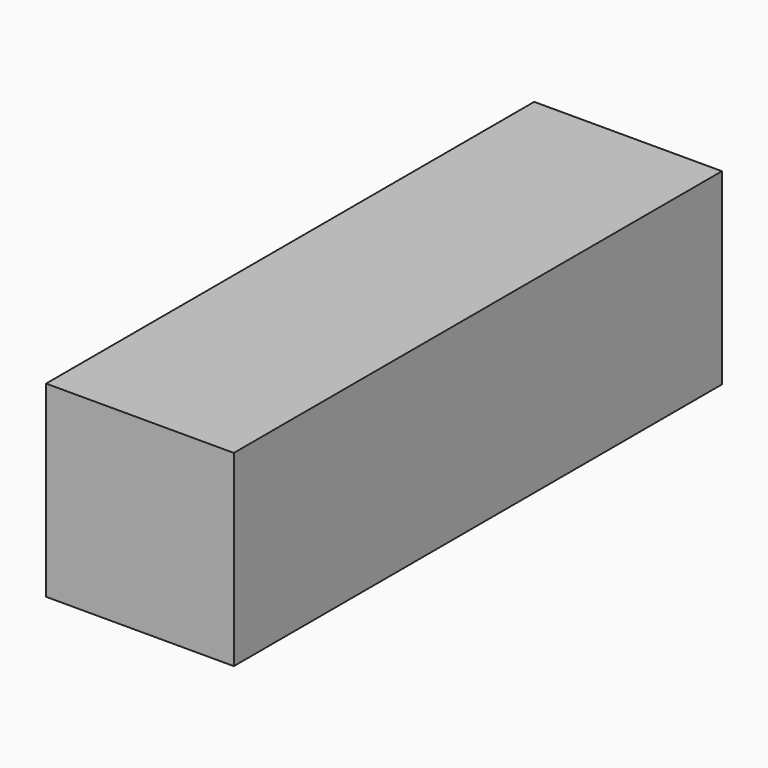
from build123d import *

# Parameters (mm, degrees)
F0_W      = 101.6
F0_H      = 76.2
F1_DEPTH  = 25.4
F1_FACE_W = 101.6
F1_FACE_H = 76.2
F2_DEPTH  = 76.2
F2_FACE_W = 101.6
F2_FACE_H = 101.6
F3_DEPTH  = 254


with BuildPart() as f1:
    # F0 (on Top) → F1 (new body)
    with BuildSketch(Plane.XY):
        Rectangle(F0_W, F0_H)
    extrude(amount=F1_DEPTH)

    # F1_face (on face) → F2 (join)
    with BuildSketch(Plane(origin=(0, 0, 0), x_dir=(1, 0, 0), z_dir=(0, 0, -1))):
        Rectangle(F1_FACE_W, F1_FACE_H)
    extrude(amount=F2_DEPTH)

    # F2_face (on face) → F3 (join)
    with BuildSketch(Plane(origin=(0, -38.1, -25.4), x_dir=(1, 0, 0), z_dir=(0, -1, 0))):
        Rectangle(F2_FACE_W, F2_FACE_H)
    extrude(amount=F3_DEPTH)


solid = f1.part
